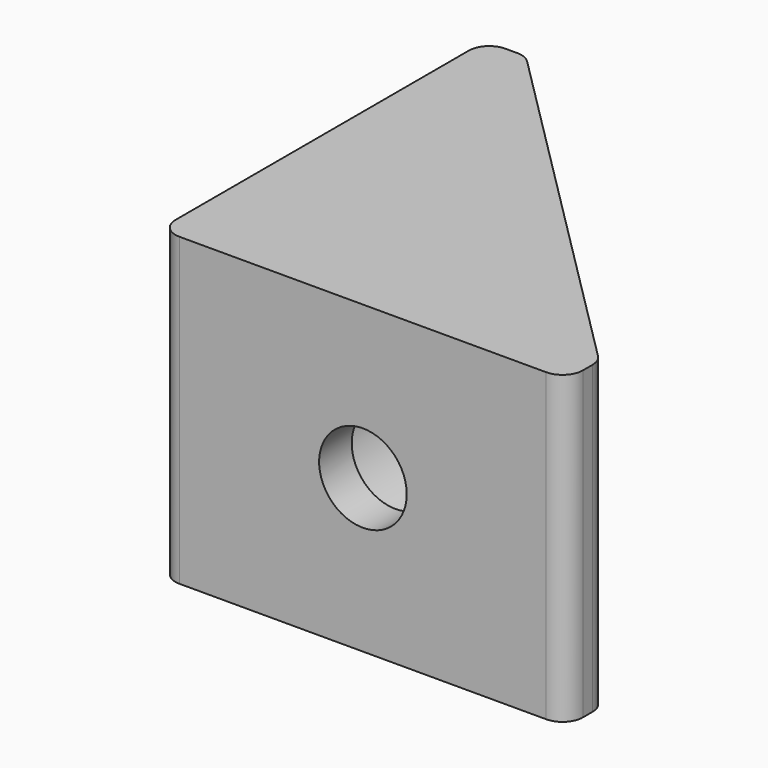
from build123d import *

# Parameters (mm, degrees)
F1_DEPTH = 7.5
F3_R     = 2.15
F4_DEPTH = 20
F2_R     = 2.15
F5_DEPTH = 20
F6_START = -2
F2_R_2   = 3.65
F6_DEPTH = 18
F7_START = -2
F3_R_2   = 3.65
F7_DEPTH = 18
F8_R     = 1


with BuildPart() as f1:
    # F0 (on Top) → F1 (new body, symmetric)
    with BuildSketch(Plane.XY):
        Polygon((0, 20), (0, 0), (20, 0), (20, 2), (2, 20), align=None)
    extrude(amount=F1_DEPTH, both=True)

    # F3 (on face) → F4 (cut)
    with BuildSketch(Plane.XZ):
        with Locations((10, 0)):
            Circle(F3_R)
    extrude(amount=-F4_DEPTH, mode=Mode.SUBTRACT)

    # F2 (on face) → F5 (cut)
    with BuildSketch(Plane(origin=(0, 0, 0), x_dir=(0, -1, 0), z_dir=(-1, 0, 0))):
        with Locations((-10, 0)):
            Circle(F2_R)
    extrude(amount=-F5_DEPTH, mode=Mode.SUBTRACT)

    # F2 (on face) → F6 (cut)
    with BuildSketch(Plane(origin=(0, 0, 0), x_dir=(0, -1, 0), z_dir=(-1, 0, 0)).offset(F6_START)):
        with Locations((-10, 0)):
            Circle(F2_R_2)
        with Locations((-10, 0)):
            Circle(F2_R, mode=Mode.SUBTRACT)
    extrude(amount=-F6_DEPTH, mode=Mode.SUBTRACT)

    # F3 (on face) → F7 (cut)
    with BuildSketch(Plane.XZ.offset(F7_START)):
        with Locations((10, 0)):
            Circle(F3_R_2)
        with Locations((10, 0)):
            Circle(F3_R, mode=Mode.SUBTRACT)
    extrude(amount=-F7_DEPTH, mode=Mode.SUBTRACT)

    # F8
    f8_edges = [f1.edges().sort_by_distance(p)[0] for p in [
        (0, 0, 0),
        (20, 0, 0),
        (20, 2, 0),
        (2, 20, 0),
        (0, 20, 0),
    ]]
    fillet(f8_edges, radius=F8_R)


solid = f1.part
